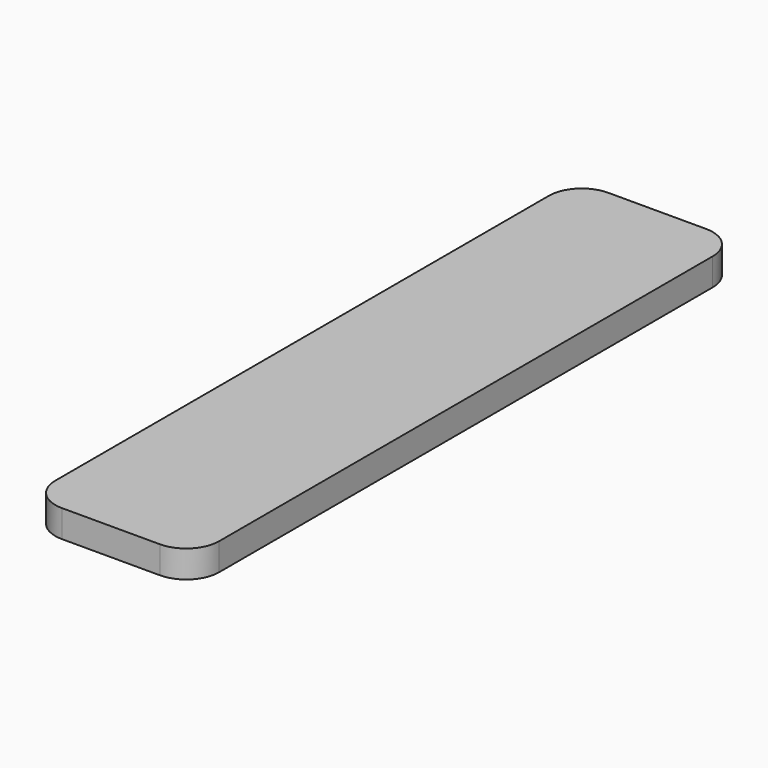
from build123d import *

# Parameters (mm, degrees)
F0_W     = 12
F0_H     = 50
F1_DEPTH = 2
F2_R     = 2.414214


with BuildPart() as f1:
    # F0 (on Top) → F1 (new body)
    with BuildSketch(Plane.XY):
        with Locations((-0.576223, -2.637421)):
            Rectangle(F0_W, F0_H)
        with Locations((-0.576223, -2.637421)):
            Rectangle(F0_W, F0_H)
    extrude(amount=F1_DEPTH)

    # F2
    f2_edges = [f1.edges().sort_by_distance(p)[0] for p in [
        (-6.576223, -27.637421, 1),
        (5.423777, -27.637421, 1),
        (5.423777, 22.362579, 1),
        (-6.576223, 22.362579, 1),
    ]]
    fillet(f2_edges, radius=F2_R)


solid = f1.part
